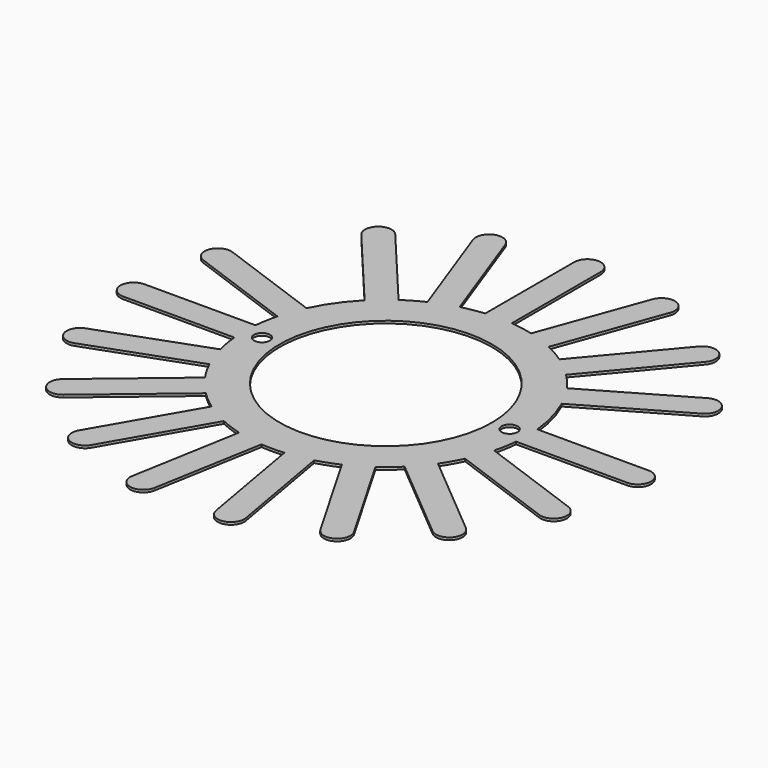
from build123d import *

# Parameters (mm, degrees)
F0_R      = 8
F0_R_2    = 6
F1_DEPTH  = 0.14
F3_DEPTH  = 0.14
F5_COUNT  = 11
F5_ANGLE  = 200
F7_DEPTH  = 0.14
F8_COUNT  = 6
F8_ANGLE  = 100
F10_R     = 0.45
F11_DEPTH = 0.14


with BuildPart() as f1:
    # F0 (on Top) → F1 (new body)
    with BuildSketch(Plane.XY):
        Circle(F0_R)
        Circle(F0_R_2, mode=Mode.SUBTRACT)
    extrude(amount=F1_DEPTH)


with BuildPart() as f3:
    # F2 (on Top) → F3 (new body)
    with BuildSketch(Plane.XY):
        with BuildLine():
            Line((7.964766, -0.75), (14.25, -0.75))
            ThreePointArc((14.25, -0.75), (15, 0), (14.25, 0.75))
            Line((14.25, 0.75), (7.964766, 0.75))
            Line((7.964766, 0.75), (7.964766, -0.75))
        make_face()
    extrude(amount=F3_DEPTH)


with BuildPart() as f5_1:
    # F5: instance of F3
    add(f3.part.rotate(Axis((0, 0, 2.663581), (0, 0, -1)), 1 * F5_ANGLE / (F5_COUNT - 1)))


with BuildPart() as f5_2:
    # F5: instance of F3
    add(f3.part.rotate(Axis((0, 0, 2.663581), (0, 0, -1)), 2 * F5_ANGLE / (F5_COUNT - 1)))


with BuildPart() as f5_3:
    # F5: instance of F3
    add(f3.part.rotate(Axis((0, 0, 2.663581), (0, 0, -1)), 3 * F5_ANGLE / (F5_COUNT - 1)))


with BuildPart() as f5_4:
    # F5: instance of F3
    add(f3.part.rotate(Axis((0, 0, 2.663581), (0, 0, -1)), 4 * F5_ANGLE / (F5_COUNT - 1)))


with BuildPart() as f5_5:
    # F5: instance of F3
    add(f3.part.rotate(Axis((0, 0, 2.663581), (0, 0, -1)), 5 * F5_ANGLE / (F5_COUNT - 1)))


with BuildPart() as f5_6:
    # F5: instance of F3
    add(f3.part.rotate(Axis((0, 0, 2.663581), (0, 0, -1)), 6 * F5_ANGLE / (F5_COUNT - 1)))


with BuildPart() as f5_7:
    # F5: instance of F3
    add(f3.part.rotate(Axis((0, 0, 2.663581), (0, 0, -1)), 7 * F5_ANGLE / (F5_COUNT - 1)))


with BuildPart() as f5_8:
    # F5: instance of F3
    add(f3.part.rotate(Axis((0, 0, 2.663581), (0, 0, -1)), 8 * F5_ANGLE / (F5_COUNT - 1)))


with BuildPart() as f5_9:
    # F5: instance of F3
    add(f3.part.rotate(Axis((0, 0, 2.663581), (0, 0, -1)), 9 * F5_ANGLE / (F5_COUNT - 1)))


with BuildPart() as f5_10:
    # F5: instance of F3
    add(f3.part.rotate(Axis((0, 0, 2.663581), (0, 0, -1)), 10 * F5_ANGLE / (F5_COUNT - 1)))


with BuildPart() as f7:
    # F6 (on Top) → F7 (new body)
    with BuildSketch(Plane.XY):
        with BuildLine():
            Line((6.653684, 2.975481), (12.715862, 6.475481))
            ThreePointArc((12.715862, 6.475481), (12.990381, 7.5), (11.965862, 7.774519))
            Line((11.965862, 7.774519), (5.903684, 4.274519))
            Line((5.903684, 4.274519), (6.653684, 2.975481))
        make_face()
    extrude(amount=F7_DEPTH)


with BuildPart() as f8_1:
    # F8: instance of F7
    add(f7.part.rotate(Axis((0, 0, 2.663581), (0, 0, 1)), 1 * F8_ANGLE / (F8_COUNT - 1)))


with BuildPart() as f8_2:
    # F8: instance of F7
    add(f7.part.rotate(Axis((0, 0, 2.663581), (0, 0, 1)), 2 * F8_ANGLE / (F8_COUNT - 1)))


with BuildPart() as f8_3:
    # F8: instance of F7
    add(f7.part.rotate(Axis((0, 0, 2.663581), (0, 0, 1)), 3 * F8_ANGLE / (F8_COUNT - 1)))


with BuildPart() as f8_4:
    # F8: instance of F7
    add(f7.part.rotate(Axis((0, 0, 2.663581), (0, 0, 1)), 4 * F8_ANGLE / (F8_COUNT - 1)))


with BuildPart() as f8_5:
    # F8: instance of F7
    add(f7.part.rotate(Axis((0, 0, 2.663581), (0, 0, 1)), 5 * F8_ANGLE / (F8_COUNT - 1)))


with BuildPart() as f1_1:
    add(f1.part)

    # F9: union F7, F8_1, F8_2, F8_3, F8_4, F8_5, F5_10, F5_9, F5_8, F5_7, F5_6, F5_4, F5_5, F5_3, F5_2, F5_1, F3
    add(f7.part)
    add(f8_1.part)
    add(f8_2.part)
    add(f8_3.part)
    add(f8_4.part)
    add(f8_5.part)
    add(f5_10.part)
    add(f5_9.part)
    add(f5_8.part)
    add(f5_7.part)
    add(f5_6.part)
    add(f5_4.part)
    add(f5_5.part)
    add(f5_3.part)
    add(f5_2.part)
    add(f5_1.part)
    add(f3.part)

    # F10 (on face) → F11 (cut)
    with BuildSketch(Plane.XY.offset(0.14)):
        with Locations((7, 0)):
            Circle(F10_R)
        with Locations((-7, 0)):
            Circle(F10_R)
    extrude(amount=-F11_DEPTH, mode=Mode.SUBTRACT)


solid = f1_1.part
